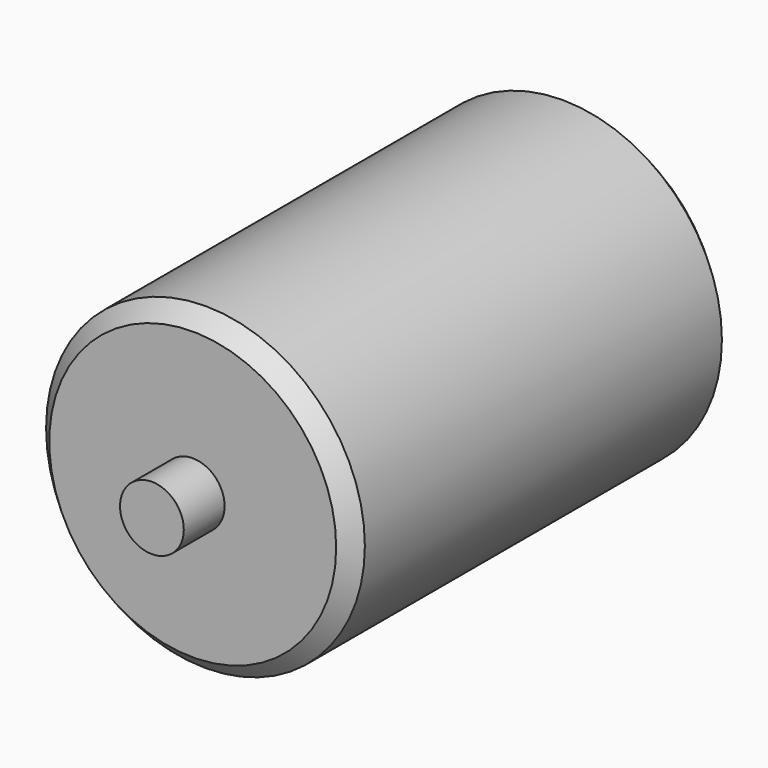
from build123d import *

# Parameters (mm, degrees)
F0_R     = 50
F1_DEPTH = 75
F2_R     = 10
F3_DEPTH = 16
F5_SIZE  = 5


with BuildPart() as f1:
    # F0 (on Front) → F1 (new body, symmetric)
    with BuildSketch(Plane.XZ):
        Circle(F0_R)
    extrude(amount=F1_DEPTH, both=True)

    # F2 (on face) → F3 (join)
    with BuildSketch(Plane.XZ.offset(75)):
        Circle(F2_R)
    extrude(amount=F3_DEPTH)

    # F4: F1 across plane


with BuildPart() as f1_1:
    add(f1.part)
    add(f1.part.mirror(Plane.XZ))

    # F5
    f5_edges = [f1_1.edges().sort_by_distance(p)[0] for p in [
        (-50, 75, 0),
        (-50, -75, 0),
    ]]
    chamfer(f5_edges, length=F5_SIZE)


solid = f1_1.part
